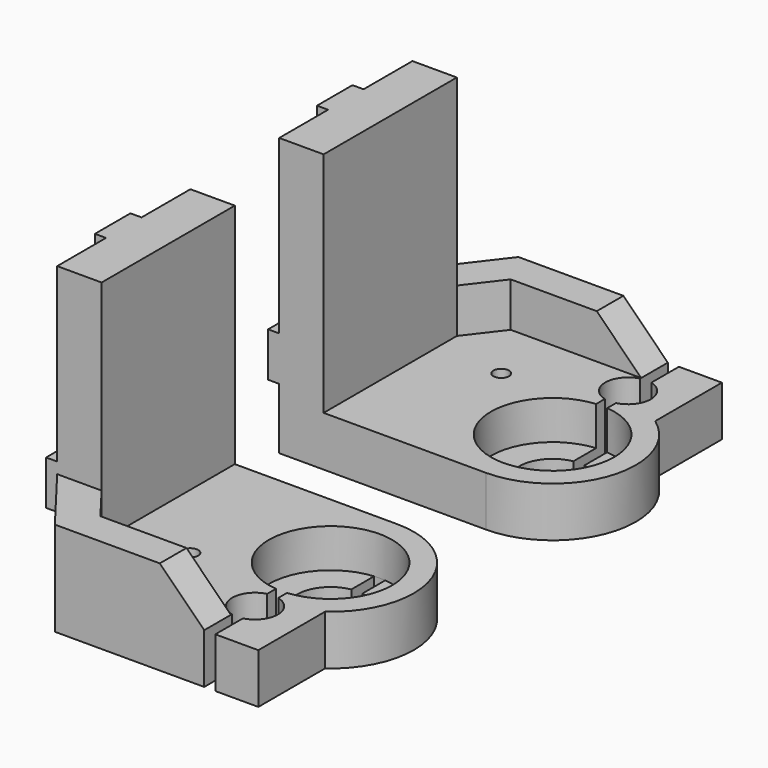
from build123d import *

# Parameters (mm, degrees)
F0_R      = 1.4
F0_R_2    = 6
F1_DEPTH  = 9
F2_R      = 11.1
F3_DEPTH  = 7
F5_DEPTH  = 9
F6_W      = 8
F6_H      = 30
F7_DEPTH  = 41
F9_DEPTH  = 8
F10_SIZE  = 8
F11_W     = 10
F11_H     = 8
F11_W_2   = 8
F11_H_2   = 5
F12_DEPTH = 2


with BuildPart() as f1:
    # F0 (on Top) → F1 (new body)
    with BuildSketch(Plane.XY):
        with BuildLine():
            Line((37.25, 0), (0, 0))
            Line((0, 0), (0, -30))
            Line((0, -30), (9.34, -42.2))
            Line((9.34, -42.2), (46, -42.2))
            Line((46, -42.2), (46, -27.183493))
            ThreePointArc((46, -27.183493), (51.528522, -10.403936), (37.25, 0))
        make_face()
        with Locations((20, -25)):
            Circle(F0_R, mode=Mode.SUBTRACT)
        with Locations((37.25, -15)):
            Circle(F0_R_2, mode=Mode.SUBTRACT)
    extrude(amount=F1_DEPTH)

    # F2 (on face) → F3 (cut)
    with BuildSketch(Plane.XY.offset(9)):
        with Locations((37.25, -15)):
            Circle(F2_R)
    extrude(amount=-F3_DEPTH, mode=Mode.SUBTRACT)

    # F4 (on face) → F5 (cut, through all)
    with BuildSketch(Plane.XY.offset(9)):
        with BuildLine():
            Line((36.25, -35.976179), (36.25, -42.2))
            Line((36.25, -42.2), (38.25, -42.2))
            Line((38.25, -42.2), (38.25, -35.976179))
            ThreePointArc((38.25, -35.976179), (41.35, -32), (38.25, -28.023821))
            Line((38.25, -28.023821), (38.25, -3.945137))
            ThreePointArc((38.25, -3.945137), (37.25, -3.9), (36.25, -3.945137))
            Line((36.25, -3.945137), (36.25, -28.023821))
            ThreePointArc((36.25, -28.023821), (33.15, -32), (36.25, -35.976179))
        make_face()
    extrude(amount=-F5_DEPTH, mode=Mode.SUBTRACT)

    # F6 (on face) → F7 (join)
    with BuildSketch(Plane.XY.offset(9)):
        with Locations((4, -15)):
            Rectangle(F6_W, F6_H)
    extrude(amount=F7_DEPTH)

    # F8 (on face) → F9 (join)
    with BuildSketch(Plane.XY.offset(9)):
        Polygon((8, -30), (0, -30), (9.34, -42.2), (36.25, -42.2), (36.25, -36.2), (12.746557, -36.2), align=None)
    extrude(amount=F9_DEPTH)

    # F10
    f10_edges = [f1.edges().sort_by_distance(p)[0] for p in [
        (36.25, -39.2, 17),
    ]]
    chamfer(f10_edges, length=F10_SIZE)

    # F11 (on face) → F12 (join)
    with BuildSketch(Plane(origin=(0, 0, 0), x_dir=(0, -1, 0), z_dir=(-1, 0, 0))):
        with Locations((5, 15)):
            Rectangle(F11_W, F11_H)
        with Locations((25, 15)):
            Rectangle(F11_W, F11_H)
        with Locations((15, 47.5)):
            Rectangle(F11_W_2, F11_H_2)
        with Locations((15, 32.5)):
            Rectangle(F11_W_2, F11_H_2)
    extrude(amount=F12_DEPTH)


with BuildPart() as f13_1:
    # F13: instance of F1
    add(f1.part.mirror(Plane.XZ))


with BuildPart() as f13_1_1:
    # F14: moved
    add(f13_1.part.moved(Location((0, 20, 0))))


solid = Compound([f1.part, f13_1_1.part])
